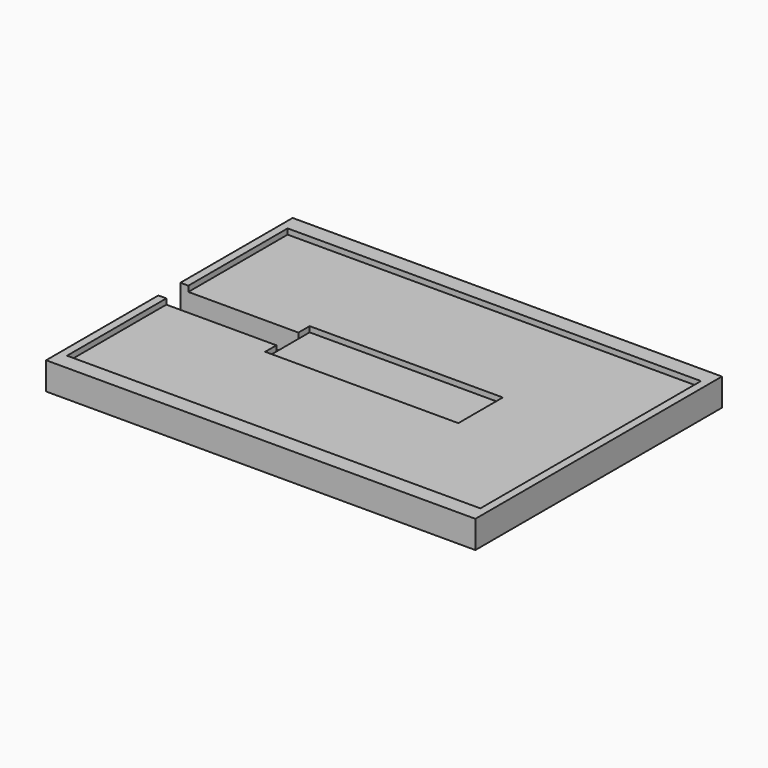
from build123d import *

# Parameters (mm, degrees)
F0_W     = 99.06
F0_H     = 71.12
F1_DEPTH = 6.35
F2_W     = 95.377
F2_H     = 63.627
F3_DEPTH = 1.27
F4_W     = 44.577
F4_H     = 12.827
F5_DEPTH = 1.27
F6_W     = 6.35
F6_H     = 6.35
F7_DEPTH = 27.2415


with BuildPart() as f1:
    # F0 (on Top) → F1 (new body)
    with BuildSketch(Plane.XY):
        Rectangle(F0_W, F0_H)
    extrude(amount=F1_DEPTH)

    # F2 (on face) → F3 (cut)
    with BuildSketch(Plane.XY.offset(6.35)):
        Rectangle(F2_W, F2_H)
    extrude(amount=-F3_DEPTH, mode=Mode.SUBTRACT)

    # F4 (on face) → F5 (cut)
    with BuildSketch(Plane.XY.offset(5.08)):
        Rectangle(F4_W, F4_H)
    extrude(amount=-F5_DEPTH, mode=Mode.SUBTRACT)

    # F6 (on face) → F7 (cut, through all)
    with BuildSketch(Plane(origin=(-49.53, 0, 0), x_dir=(0, -1, 0), z_dir=(-1, 0, 0))):
        with Locations((0, 3.175)):
            Rectangle(F6_W, F6_H)
    extrude(amount=-F7_DEPTH, mode=Mode.SUBTRACT)


solid = f1.part
